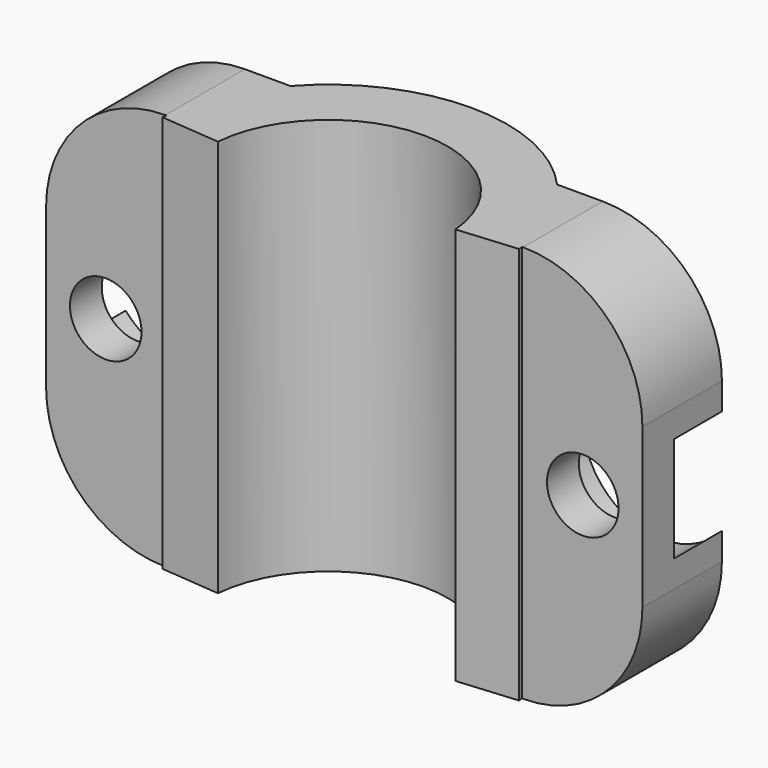
from build123d import *

# Parameters (mm, degrees)
CYLINDER095_R            = 4
CYLINDER095_DEPTH        = 20
CYLINDER001_W            = 6
CYLINDER001_H            = 20
CYLINDER001_ANGLE        = 180
CYLINDER003_R            = 1.8
CYLINDER003_DEPTH        = 50
CYLINDER_W               = 9
CYLINDER_H               = 20
CYLINDER_ANGLE           = 170
CYLINDER_PLACEMENT_ANGLE = 5
BOX_W                    = 9
BOX_H                    = 5
BOX_DEPTH                = 20
FILLET_R                 = 6


with BuildPart() as bolt_head_cylinder:
    # Cylinder095 → Cylinder095 (new body)
    with BuildSketch(Plane(origin=(-12, 3, 10), x_dir=(1, 0, 0), z_dir=(0, 1, 0))):
        Circle(CYLINDER095_R)
    extrude(amount=CYLINDER095_DEPTH)


with BuildPart() as top_petals_hole_fusion:
    # Part__Mirroring004: instance of bolt head cylinder
    add(bolt_head_cylinder.part.mirror(Plane(origin=(0, 0, 0), x_dir=(0, -1, 0), z_dir=(1, 0, 0))))

    # Fusion002: union bolt head cylinder
    add(bolt_head_cylinder.part)


with BuildPart() as hole_cylinder:
    # Cylinder001 → Cylinder001 (revolve)
    with BuildSketch(Plane.XZ):
        with Locations((3, 10)):
            Rectangle(CYLINDER001_W, CYLINDER001_H)
    revolve(axis=Axis((0, 0, 0), (0, 0, 1)), revolution_arc=CYLINDER001_ANGLE)


with BuildPart() as bolt_hole:
    # Cylinder003 → Cylinder003 (new body)
    with BuildSketch(Plane(origin=(-12, 20, 10), x_dir=(1, 0, 0), z_dir=(0, -1, 0))):
        Circle(CYLINDER003_R)
    extrude(amount=CYLINDER003_DEPTH)


with BuildPart() as part_mirroring003:
    # Part__Mirroring003: instance of bolt hole
    add(bolt_hole.part.mirror(Plane(origin=(0, 0, 0), x_dir=(0, -1, 0), z_dir=(1, 0, 0))))


with BuildPart() as hole_fusion:
    # Fusion base: copy of bolt hole
    add(bolt_hole.part)

    # Fusion: union hole cylinder, Part__Mirroring003
    add(hole_cylinder.part)
    add(part_mirroring003.part)


with BuildPart() as external_cylinder:
    # Cylinder → Cylinder (revolve)
    with BuildSketch(Plane.XZ):
        with Locations((4.5, 10)):
            Rectangle(CYLINDER_W, CYLINDER_H)
    revolve(axis=Axis((0, 0, 0), (0, 0, 1)), revolution_arc=CYLINDER_ANGLE)


with BuildPart() as external_cylinder_1:
    # Cylinder placement: moved
    add(external_cylinder.part.rotate(Axis((0, 0, 0), (0, 0, 1)), CYLINDER_PLACEMENT_ANGLE))


with BuildPart() as petal_fillet:
    # Box → Box (new body)
    with BuildSketch(Plane(origin=(-15, 1, 0), x_dir=(1, 0, 0), z_dir=(0, 0, 1))):
        with Locations((4.5, 2.5)):
            Rectangle(BOX_W, BOX_H)
    extrude(amount=BOX_DEPTH)

    # Fillet
    fillet_edges = [petal_fillet.edges().sort_by_distance(p)[0] for p in [
        (-15, 3.5, 20),
        (-15, 3.5, 0),
    ]]
    fillet(fillet_edges, radius=FILLET_R)


with BuildPart() as part_mirroring002:
    # Part__Mirroring002: instance of petal fillet
    add(petal_fillet.part.mirror(Plane(origin=(0, 0, 0), x_dir=(0, -1, 0), z_dir=(1, 0, 0))))


with BuildPart() as top_half_cut:
    # Fusion001 base: copy of petal fillet
    add(petal_fillet.part)

    # Fusion001: union external cylinder, Part__Mirroring002
    add(external_cylinder_1.part)
    add(part_mirroring002.part)

    # Cut: cut hole fusion
    add(hole_fusion.part, mode=Mode.SUBTRACT)

    # Cut001: cut top petals hole fusion
    add(top_petals_hole_fusion.part, mode=Mode.SUBTRACT)


solid = top_half_cut.part
